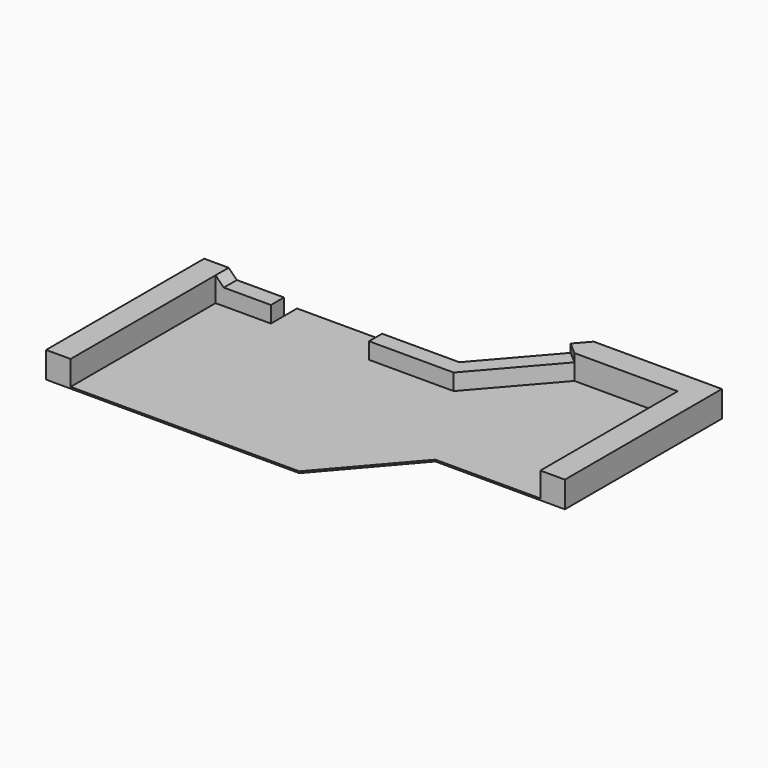
from build123d import *

# Parameters (mm, degrees)
F1_DEPTH = 25
F5_DEPTH = 375
F6_W     = 845
F6_H     = 250
F7_DEPTH = 250
F9_DEPTH = 250


with BuildPart() as f1:
    # F0 (on Top) → F1 (new body)
    with BuildSketch(Plane.XY):
        Polygon((-4820, 0), (-949.416399, 0), (129.579357, 1250), (2109.579357, 1250), (2109.579357, 4250), (149.579357, 4250), (-920, 3020), (-2100, 3020), (-2100, 3270), (-3600, 3270), (-3600, 3020), (-4820, 3020), align=None)
    extrude(amount=F1_DEPTH)

    # F4 (on face) → F5 (join)
    with BuildSketch(Plane.XY.offset(25)):
        Polygon((-4820, 3020), (-4820, 0), (-4445, 0), (-4445, 2645), (-4445, 3020), align=None)
        Polygon((2109.579357, 4250), (154.788902, 4250), (149.579357, 4250), (-33.861404, 4039.045914), (154.788902, 3875), (1734.579357, 3875), (1734.579357, 1250), (2109.579357, 1250), align=None)
    extrude(amount=F5_DEPTH)

    # F6 (on face) → F7 (join)
    with BuildSketch(Plane.XY.offset(25)):
        with Locations((-4022.5, 2895)):
            Rectangle(F6_W, F6_H)
        Polygon((-920, 3020), (-2100, 3020), (-2100, 2770), (-806.093365, 2770), (154.788902, 3875), (-33.861404, 4039.045914), align=None)
    extrude(amount=F7_DEPTH)

    # F8 (on face) → F9 (join, through all)
    with BuildSketch(Plane.XZ.offset(-2770)):
        Polygon((-4445, 400), (-4445, 275), (-4320, 275), align=None)
    extrude(amount=-F9_DEPTH)


solid = f1.part
